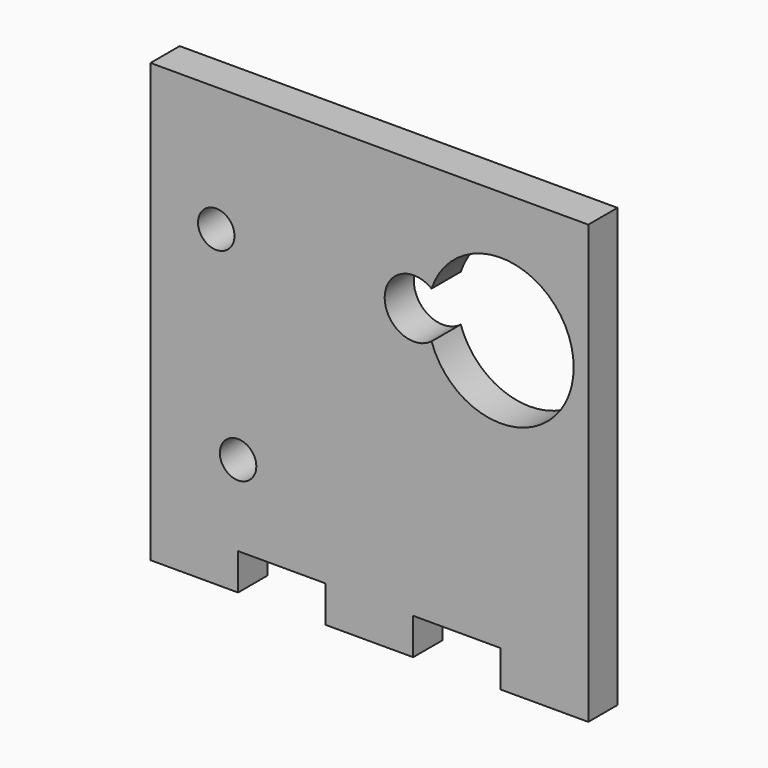
from build123d import *

# Parameters (mm, degrees)
F0_W     = 38.1
F0_H     = 38.1
F1_DEPTH = 3.175
F2_W     = 7.62
F2_H     = 3.175
F2_R     = 1.5875
F3_DEPTH = 3.175


with BuildPart() as f1:
    # F0 (on Front) → F1 (new body)
    with BuildSketch(Plane.XZ):
        with Locations((-6.205209, -2.285485)):
            Rectangle(F0_W, F0_H)
    extrude(amount=F1_DEPTH)

    # F2 (on face) → F3 (cut)
    with BuildSketch(Plane.XZ.offset(3.175)):
        with BuildLine():
            ThreePointArc((-0.795584, 7.425862), (-4.876371, 5.406561), (-0.795584, 3.38726))
            ThreePointArc((-0.795584, 3.38726), (11.574791, 5.406561), (-0.795584, 7.425862))
        make_face()
        with Locations((-13.825209, -19.747985)):
            Rectangle(F2_W, F2_H)
        with Locations((1.414791, -19.747985)):
            Rectangle(F2_W, F2_H)
        with Locations((-19.535628, 5.882839)):
            Circle(F2_R)
        with Locations((-17.635209, -11.156511)):
            Circle(F2_R)
    extrude(amount=-F3_DEPTH, mode=Mode.SUBTRACT)


solid = f1.part
